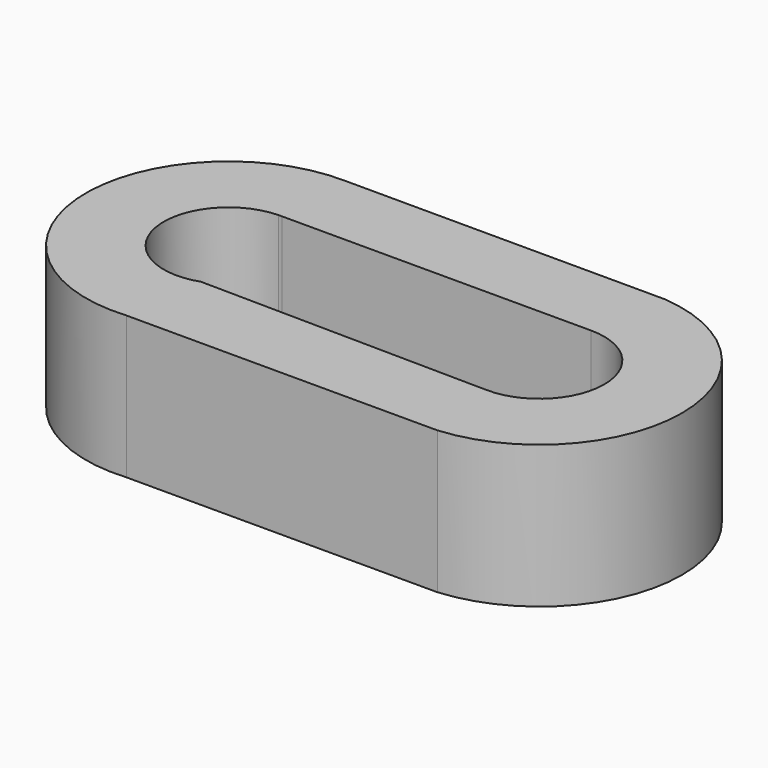
from build123d import *

# Parameters (mm, degrees)
F1_DEPTH = 17.4625


with BuildPart() as f1:
    # F0 (on Top) → F1 (new body)
    with BuildSketch(Plane.XY):
        with BuildLine():
            Line((-8.828322, -39.820505), (26.439151, -39.820505))
            Line((26.439151, -39.820505), (29.271678, -39.820505))
            ThreePointArc((29.271678, -39.820505), (45.317915, -22.415531), (29.271678, -5.010558))
            Line((29.271678, -5.010558), (26.487026, -5.006728))
            Line((26.487026, -5.006728), (-9.886203, -4.956709))
            ThreePointArc((-9.886203, -4.956709), (-27.699052, -22.945157), (-8.828322, -39.820505))
        make_face()
        with BuildLine():
            ThreePointArc((27.854786, -14.478031), (35.792759, -22.465207), (27.755437, -30.352402))
            Line((27.755437, -30.352402), (-7.620645, -29.906783))
            ThreePointArc((-7.620645, -29.906783), (-18.050575, -23.854432), (-10.464113, -14.481068))
            ThreePointArc((-10.464113, -14.481068), (-10.245214, -14.478031), (-10.026315, -14.481033))
            Line((-10.026315, -14.481033), (27.854786, -14.478031))
        make_face(mode=Mode.SUBTRACT)
    extrude(amount=F1_DEPTH)


solid = f1.part
